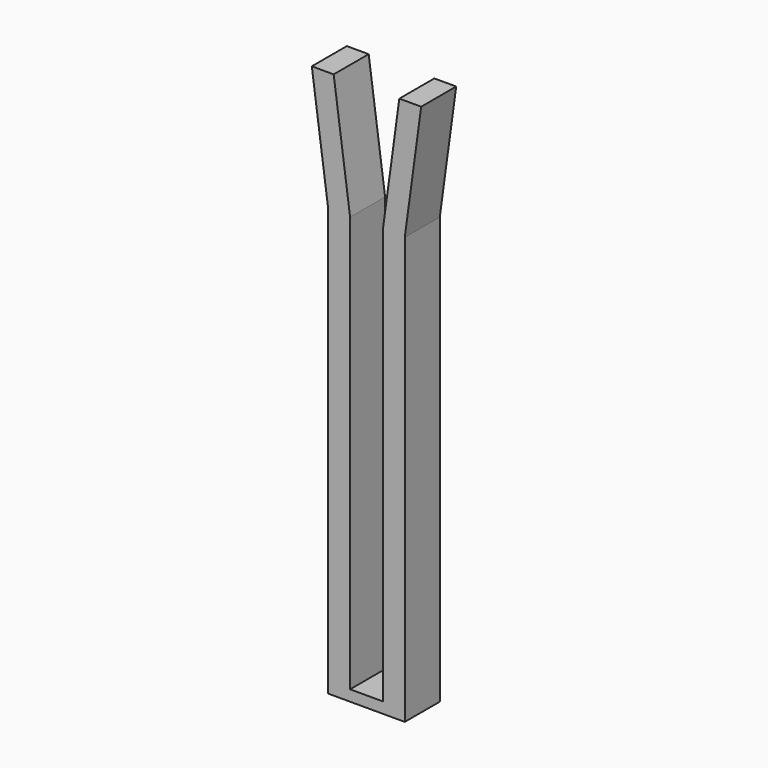
from build123d import *

# Parameters (mm, degrees)
PAD_DEPTH = 4


with BuildPart() as part:
    # Sketch → Pad (new body)
    with BuildSketch(Plane.XZ):
        Polygon((3, 49), (1.5, 38), (1.5, 0), (-1.5, 0), (-1.5, 38), (-3, 49), (-5, 49), (-3.5, 38), (-3.5, -1), (3.5, -1), (3.5, 38), (5, 49), align=None)
    extrude(amount=PAD_DEPTH)


solid = part.part
